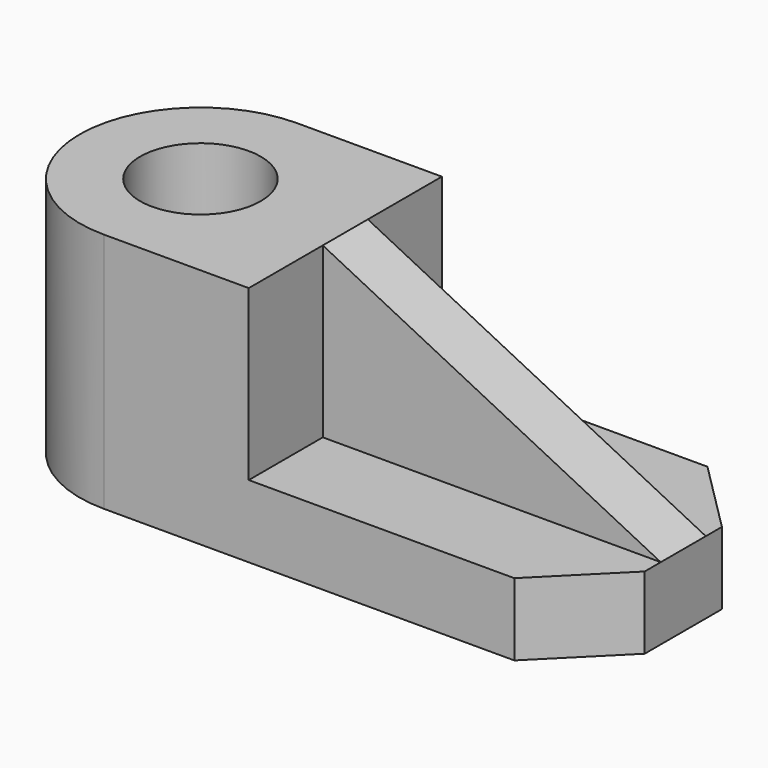
from build123d import *

# Parameters (mm, degrees)
F0_R     = 7.5
F1_DEPTH = 9
F2_R     = 7.5
F3_DEPTH = 21
F6_DEPTH = 3.5


with BuildPart() as f1:
    # F0 (on Top) → F1 (new body)
    with BuildSketch(Plane.XY):
        with BuildLine():
            ThreePointArc((0, 30), (-15, 15), (0, 0))
            Line((0, 0), (51, 0))
            Line((51, 0), (60, 9))
            Line((60, 9), (60, 21))
            Line((60, 21), (51, 30))
            Line((51, 30), (0, 30))
        make_face()
        with Locations((0, 15)):
            Circle(F0_R, mode=Mode.SUBTRACT)
    extrude(amount=F1_DEPTH)

    # F2 (on face) → F3 (join)
    with BuildSketch(Plane.XY.offset(9)):
        with BuildLine():
            Line((18, 0), (18, 30))
            Line((18, 30), (0, 30))
            ThreePointArc((0, 30), (-15, 15), (0, 0))
            Line((0, 0), (18, 0))
        make_face()
        with Locations((0, 15)):
            Circle(F2_R, mode=Mode.SUBTRACT)
    extrude(amount=F3_DEPTH)

    # F5 (on offset) → F6 (join, symmetric)
    with BuildSketch(Plane.XZ.offset(-15)):
        Polygon((60, 9), (18, 30), (18, 9), (51, 9), align=None)
    extrude(amount=F6_DEPTH, both=True)


solid = f1.part
